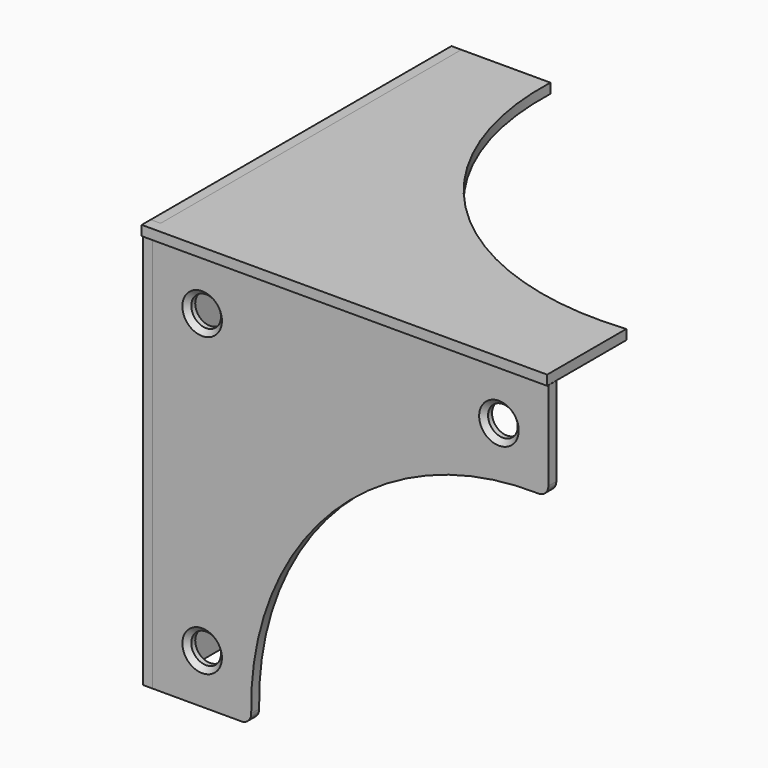
from build123d import *

# Parameters (mm, degrees)
F1_DEPTH        = 2.54
F2_R            = 2.54
F3_R            = 2.54
F5_DEPTH        = 2.54
F1_FACE_W       = 2.54
F1_FACE_H       = 101.6
F6_DEPTH        = 2.54
F8_DEPTH        = 2.54
F8_FACE_W       = 96.52
F8_FACE_H       = 2.54
F9_DEPTH        = 2.54
F11_D           = 7.62
F11_DEPTH       = 25.4
F11_CSINK_D     = 10.16
F11_CSINK_ANGLE = 90


with BuildPart() as f1:
    # F0 (on Front) → F1 (new body)
    with BuildSketch(Plane.XZ):
        with BuildLine():
            Line((43.751044, 46.916903), (-57.848956, 46.916903))
            Line((-57.848956, 46.916903), (-57.848956, -54.683097))
            Line((-57.848956, -54.683097), (-32.448956, -54.683097))
            ThreePointArc((-32.448956, -54.683097), (-11.439245, 0.507192), (43.751044, 21.516903))
            Line((43.751044, 21.516903), (43.751044, 46.916903))
        make_face()
    extrude(amount=F1_DEPTH)

    # F2
    f2_edges = [f1.edges().sort_by_distance(p)[0] for p in [
        (43.751044, -1.27, 21.516903),
    ]]
    fillet(f2_edges, radius=F2_R)

    # F3
    f3_edges = [f1.edges().sort_by_distance(p)[0] for p in [
        (-32.448956, -1.27, -54.683097),
    ]]
    fillet(f3_edges, radius=F3_R)

    # F11
    with Locations(Plane.XZ.offset(2.54)):
        with Locations((-45.148956, 34.216903), (31.051044, 34.216903), (-45.148956, -41.983097)):
            CounterSinkHole(F11_D / 2, F11_CSINK_D / 2, depth=F11_DEPTH, counter_sink_angle=F11_CSINK_ANGLE)


with BuildPart() as f5:
    # F4 (on face) → F5 (new body)
    with BuildSketch(Plane(origin=(-57.848956, 0, 0), x_dir=(0, -1, 0), z_dir=(-1, 0, 0))):
        with BuildLine():
            Line((0, -54.683097), (0, 46.916903))
            Line((0, 46.916903), (-96.52, 46.916903))
            Line((-96.52, 46.916903), (-96.52, 21.516903))
            ThreePointArc((-96.52, 21.516903), (-40.856178, 0.980725), (-20.32, -54.683097))
            Line((-20.32, -54.683097), (0, -54.683097))
        make_face()
    extrude(amount=F5_DEPTH)


with BuildPart() as f6:
    # F1_face (on face) → F6 (new body)
    with BuildSketch(Plane(origin=(-57.848956, -1.27, -3.883097), x_dir=(0, -1, 0), z_dir=(-1, 0, 0))):
        Rectangle(F1_FACE_W, F1_FACE_H)
    extrude(amount=F6_DEPTH)


with BuildPart() as f8:
    # F7 (on face) → F8 (new body)
    with BuildSketch(Plane.XY.offset(46.916903)):
        with BuildLine():
            Line((-57.848956, 0), (-60.388956, 0))
            Line((-60.388956, 0), (-60.388956, -2.887196))
            Line((-60.388956, -2.887196), (43.708101, -2.887196))
            Line((43.708101, -2.887196), (43.708101, 22.512804))
            ThreePointArc((43.708101, 22.512804), (-12.441212, 41.650947), (-34.988956, 96.52))
            Line((-34.988956, 96.52), (-57.848956, 96.52))
            Line((-57.848956, 96.52), (-57.848956, 0))
        make_face()
    extrude(amount=F8_DEPTH)


with BuildPart() as f9:
    # F8_face (on face) → F9 (new body)
    with BuildSketch(Plane(origin=(-57.848956, 48.26, 48.186903), x_dir=(0, -1, 0), z_dir=(-1, 0, 0))):
        Rectangle(F8_FACE_W, F8_FACE_H)
    extrude(amount=F9_DEPTH)


solid = Compound([f1.part, f5.part, f6.part, f8.part, f9.part])
